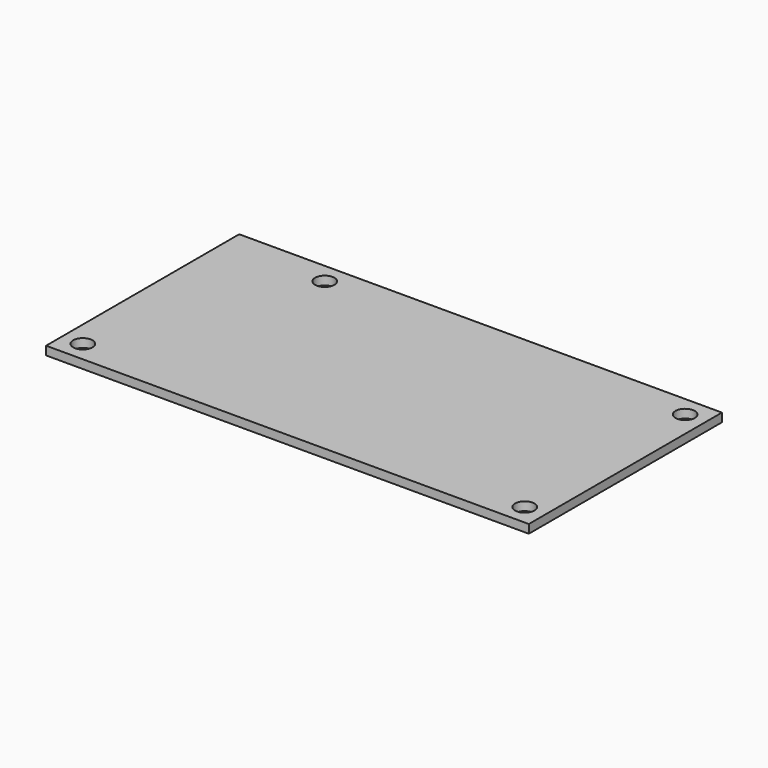
from build123d import *

# Parameters (mm, degrees)
F0_W     = 90
F0_H     = 45
F1_DEPTH = 1.6
F2_D     = 3.6


with BuildPart() as f1:
    # F0 (on Top) → F1 (new body)
    with BuildSketch(Plane.XY):
        with Locations((45, 22.5)):
            Rectangle(F0_W, F0_H)
    extrude(amount=F1_DEPTH)

    # F2 (through all)
    with Locations(Plane(origin=(0, 0, 0), x_dir=(1, 0, 0), z_dir=(0, 0, -1))):
        with Locations((19, -41.19), (3.81, -3.81), (86.19, -41.19), (86.19, -3.81)):
            Hole(F2_D / 2)


solid = f1.part
